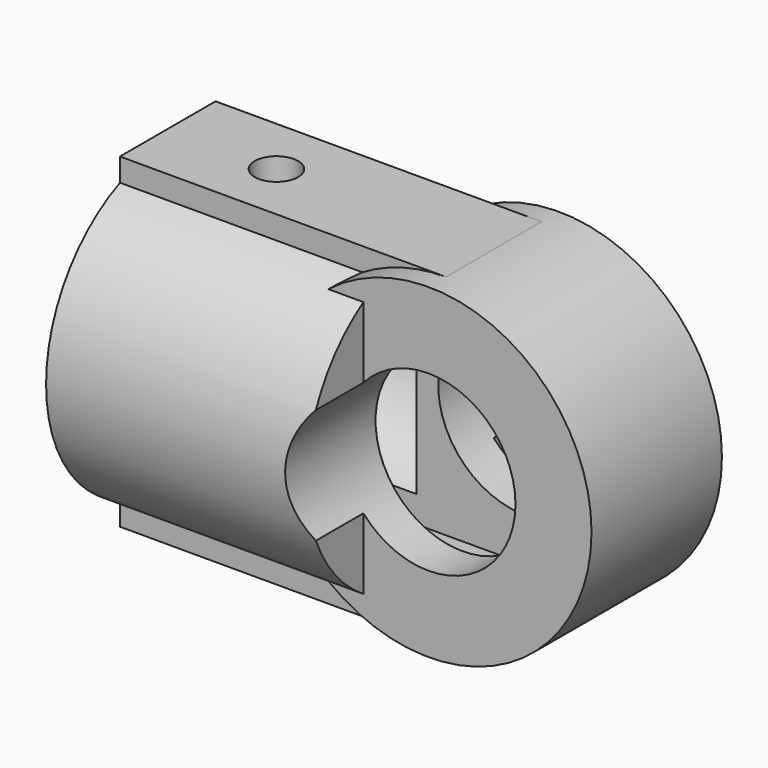
from build123d import *

# Parameters (mm, degrees)
CYLINDER003_R           = 10.2
CYLINDER003_DEPTH       = 20
CYLINDER003_PITCH_ANGLE = 90
CYLINDER_R              = 11.2
CYLINDER_DEPTH          = 7.2
CYLINDER_ROLL_ANGLE     = -90
CYLINDER005_R           = 2
CYLINDER005_DEPTH       = 30
BOX_W                   = 30.2
BOX_H                   = 7.2
BOX_DEPTH               = 24
CYLINDER004_R           = 8
CYLINDER004_DEPTH       = 30
CYLINDER004_ROLL_ANGLE  = -90
CYLINDER002_R           = 14
CYLINDER002_DEPTH       = 24
CYLINDER002_PITCH_ANGLE = 90
BOX001_W                = 30
BOX001_H                = 11
BOX001_DEPTH            = 30
CYLINDER001_R           = 15
CYLINDER001_DEPTH       = 15
CYLINDER001_ROLL_ANGLE  = -90


with BuildPart() as pipe:
    # Cylinder003 → Cylinder003 (new body)
    with BuildSketch(Plane.XY):
        Circle(CYLINDER003_R)
    extrude(amount=CYLINDER003_DEPTH)


with BuildPart() as pipe_1:
    # Cylinder003 pitch: moved
    add(pipe.part.rotate(Axis((0, 0, 0), (0, 1, 0)), CYLINDER003_PITCH_ANGLE))


with BuildPart() as pipe_2:
    # Cylinder003 placement: moved
    add(pipe_1.part.moved(Location((-30, 0, 0))))


with BuildPart() as bearing:
    # Cylinder → Cylinder (new body)
    with BuildSketch(Plane.XY):
        Circle(CYLINDER_R)
    extrude(amount=CYLINDER_DEPTH)


with BuildPart() as bearing_1:
    # Cylinder roll: moved
    add(bearing.part.rotate(Axis((0, 0, 0), (1, 0, 0)), CYLINDER_ROLL_ANGLE))


with BuildPart() as bearing_2:
    # Cylinder placement: moved
    add(bearing_1.part.moved(Location((0, -3.6, 0))))


with BuildPart() as cylinder003:
    # Cylinder005 → Cylinder005 (new body)
    with BuildSketch(Plane(origin=(-20, 0, -15), x_dir=(1, 0, 0), z_dir=(0, 0, 1))):
        Circle(CYLINDER005_R)
    extrude(amount=CYLINDER005_DEPTH)


with BuildPart() as cube:
    # Box → Box (new body)
    with BuildSketch(Plane(origin=(-30, -3.6, -12), x_dir=(1, 0, 0), z_dir=(0, 0, 1))):
        with Locations((15.1, 3.6)):
            Rectangle(BOX_W, BOX_H)
    extrude(amount=BOX_DEPTH)


with BuildPart() as negative_fusion:
    # Cylinder004 → Cylinder004 (new body)
    with BuildSketch(Plane.XY):
        Circle(CYLINDER004_R)
    extrude(amount=CYLINDER004_DEPTH)


with BuildPart() as negative_fusion_1:
    # Cylinder004 roll: moved
    add(negative_fusion.part.rotate(Axis((0, 0, 0), (1, 0, 0)), CYLINDER004_ROLL_ANGLE))


with BuildPart() as negative_fusion_2:
    # Cylinder004 placement: moved
    add(negative_fusion_1.part.moved(Location((0, -15, 0))))

    # Fusion001: union Pipe, Bearing, Cylinder003, Cube
    add(pipe_2.part)
    add(bearing_2.part)
    add(cylinder003.part)
    add(cube.part)


with BuildPart() as cylinder002:
    # Cylinder002 → Cylinder002 (new body)
    with BuildSketch(Plane.XY):
        Circle(CYLINDER002_R)
    extrude(amount=CYLINDER002_DEPTH)


with BuildPart() as cylinder002_1:
    # Cylinder002 pitch: moved
    add(cylinder002.part.rotate(Axis((0, 0, 0), (0, 1, 0)), CYLINDER002_PITCH_ANGLE))


with BuildPart() as cylinder002_2:
    # Cylinder002 placement: moved
    add(cylinder002_1.part.moved(Location((-30, 0, 0))))


with BuildPart() as cube001:
    # Box001 → Box001 (new body)
    with BuildSketch(Plane(origin=(-30, -5.5, -15), x_dir=(1, 0, 0), z_dir=(0, 0, 1))):
        with Locations((15, 5.5)):
            Rectangle(BOX001_W, BOX001_H)
    extrude(amount=BOX001_DEPTH)


with BuildPart() as cut:
    # Cylinder001 → Cylinder001 (new body)
    with BuildSketch(Plane.XY):
        Circle(CYLINDER001_R)
    extrude(amount=CYLINDER001_DEPTH)


with BuildPart() as cut_1:
    # Cylinder001 roll: moved
    add(cut.part.rotate(Axis((0, 0, 0), (1, 0, 0)), CYLINDER001_ROLL_ANGLE))


with BuildPart() as cut_2:
    # Cylinder001 placement: moved
    add(cut_1.part.moved(Location((0, -7.5, 0))))

    # Fusion: union Cylinder002, Cube001
    add(cylinder002_2.part)
    add(cube001.part)

    # Cut: cut Negative Fusion
    add(negative_fusion_2.part, mode=Mode.SUBTRACT)


solid = cut_2.part
